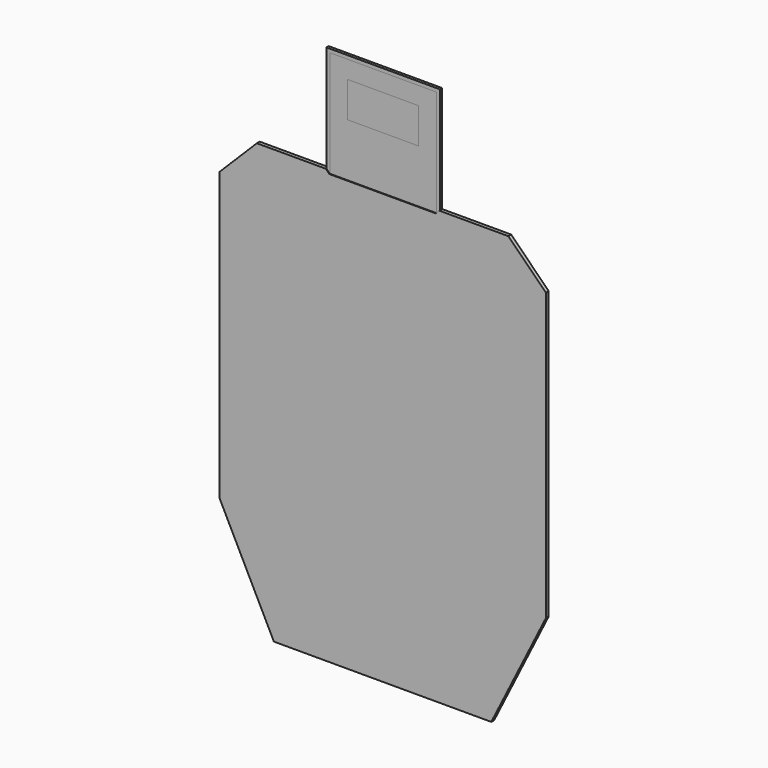
from build123d import *

# Parameters (mm, degrees)
F1_DEPTH  = 3
F2_W      = 150
F2_H      = 150
F3_DEPTH  = 3
F4_W      = 150
F4_H      = 280
F5_DEPTH  = 3
F6_W      = 150
F6_H      = 280
F7_DEPTH  = 3
F9_DEPTH  = 3
F11_DEPTH = 3
F13_DEPTH = 1
F15_DEPTH = 1
F17_DEPTH = 1


with BuildPart() as f1:
    # F0 (on Front) → F1 (new body)
    with BuildSketch(Plane.XZ):
        Polygon((50, 125), (0, 125), (-50, 125), (-50, 100), (-50, 75), (0, 75), (50, 75), (50, 100), align=None)
    extrude(amount=-F1_DEPTH)


with BuildPart() as f3:
    # F2 (on Front) → F3 (new body)
    with BuildSketch(Plane.XZ):
        with Locations((0, 75)):
            Rectangle(F2_W, F2_H)
        Polygon((-50, 125), (0, 125), (50, 125), (50, 100), (50, 75), (0, 75), (-50, 75), (-50, 100), align=None, mode=Mode.SUBTRACT)
    extrude(amount=-F3_DEPTH)


with BuildPart() as f5:
    # F4 (on Front) → F5 (new body)
    with BuildSketch(Plane.XZ):
        with Locations((0, -190)):
            Rectangle(F4_W, F4_H)
    extrude(amount=-F5_DEPTH)


with BuildPart() as f7:
    # F6 (on Front) → F7 (new body)
    with BuildSketch(Plane.XZ):
        Polygon((75, 0), (-75, 0), (-150, -50), (-150, -330), (-100, -450), (100, -450), (150, -330), (150, -50), align=None)
        with Locations((0, -190)):
            Rectangle(F6_W, F6_H, mode=Mode.SUBTRACT)
    extrude(amount=-F7_DEPTH)


with BuildPart() as f9:
    # F8 (on face) → F9 (new body)
    with BuildSketch(Plane.XZ):
        Polygon((175, 0), (75, 0), (150, -50), (150, -330), (100, -450), (-100, -450), (-150, -330), (-150, -50), (-75, 0), (-175, 0), (-225, -50), (-225, -450), (-150, -600), (150, -600), (225, -450), (225, -50), align=None)
    extrude(amount=-F9_DEPTH)


with BuildPart() as f11:
    # F10 (on face) → F11 (new body)
    with BuildSketch(Plane.XZ):
        Polygon((230, -47.928932), (177.071068, 5), (80, 5), (80, 155), (-80, 155), (-80, 5), (-177.071068, 5), (-230, -47.928932), (-230, -451.18034), (-153.09017, -605), (153.09017, -605), (230, -451.18034), align=None)
        Polygon((-75, 150), (75, 150), (75, 0), (175, 0), (225, -50), (225, -450), (150, -600), (-150, -600), (-225, -450), (-225, -50), (-175, 0), (-75, 0), align=None, mode=Mode.SUBTRACT)
    extrude(amount=-F11_DEPTH)


with BuildPart() as f13:
    # F12 (on face) → F13 (new body)
    with BuildSketch(Plane(origin=(0, 3, 0), x_dir=(-1, 0, 0), z_dir=(0, 1, 0))):
        Polygon((75, 0), (75, 150), (-75, 150), (-75, 0), (-175, 0), (-225, -50), (-225, -450), (-150, -600), (150, -600), (225, -450), (225, -50), (175, 0), align=None)
    extrude(amount=F13_DEPTH)


with BuildPart() as f15:
    # F14 (on face) → F15 (new body)
    with BuildSketch(Plane(origin=(0, 4, 0), x_dir=(-1, 0, 0), z_dir=(0, 1, 0))):
        Polygon((80, 155), (-80, 155), (-80, 5), (-177.071068, 5), (-230, -47.928932), (-230, -451.18034), (-153.09017, -605), (153.09017, -605), (230, -451.18034), (230, -47.928932), (177.071068, 5), (80, 5), align=None)
        Polygon((-75, 0), (-75, 150), (75, 150), (75, 0), (175, 0), (225, -50), (225, -450), (150, -600), (-150, -600), (-225, -450), (-225, -50), (-175, 0), align=None, mode=Mode.SUBTRACT)
    extrude(amount=-F15_DEPTH)


with BuildPart() as f17:
    # F16 (on face) → F17 (new body)
    with BuildSketch(Plane.XZ):
        Polygon((-230, -451.18034), (-153.09017, -605), (153.09017, -605), (230, -451.18034), (230, -47.928932), (177.071068, 5), (80, 5), (75, 0), (-75, 0), (-80, 5), (-177.071068, 5), (-230, -47.928932), align=None)
    extrude(amount=F17_DEPTH)


solid = Compound([f1.part, f3.part, f5.part, f7.part, f9.part, f11.part, f13.part, f15.part, f17.part])
